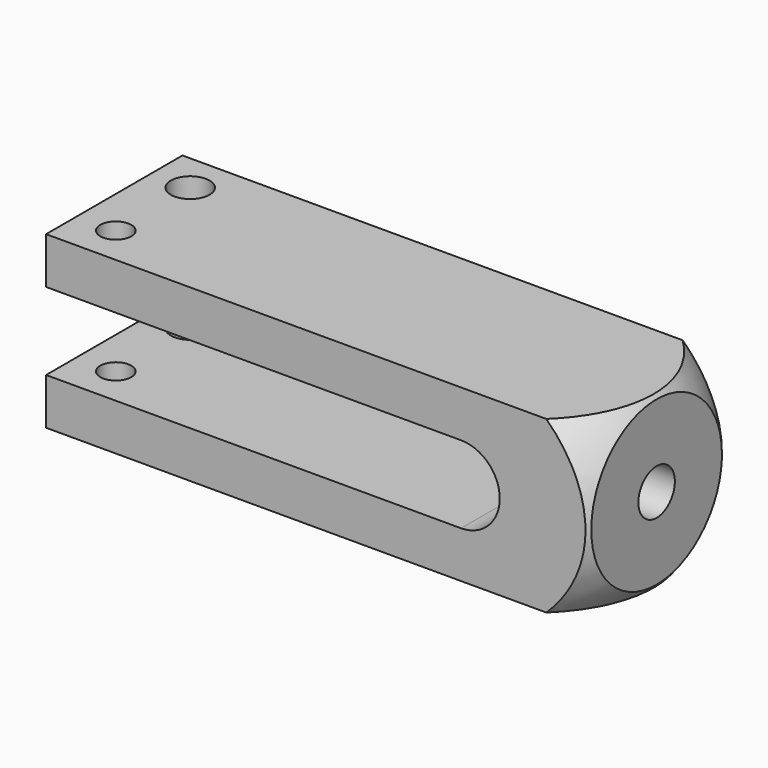
from build123d import *

# Parameters (mm, degrees)
F0_W     = 111.125
F0_H     = 34.925
F1_DEPTH = 34.925
F2_W     = 85.0138
F2_H     = 15.875
F3_DEPTH = 50.8
F6_ANGLE = 359.999
F8_D     = 9.3472
F9_DEPTH = 25.4
F11_D    = 6.35
F12_D    = 7.9248


with BuildPart() as f1:
    # F0 (on Top) → F1 (new body)
    with BuildSketch(Plane.XY):
        with Locations((-9.4721727073, 38.9707404039)):
            Rectangle(F0_W, F0_H)
    extrude(amount=-F1_DEPTH)

    # F2 (on face) → F3 (cut)
    with BuildSketch(Plane.XZ.offset(-21.5082404039)):
        with Locations((-22.5277727073, -17.4625)):
            Rectangle(F2_W, F2_H)
        with BuildLine():
            ThreePointArc((19.9791272927, -25.4), (27.9166272927, -17.4625), (19.9791272927, -9.525))
            Line((19.9791272927, -9.525), (19.9791272927, -25.4))
        make_face()
    extrude(amount=-F3_DEPTH, mode=Mode.SUBTRACT)

    # F5 (on mid) → F6 (revolve, cut)
    with BuildSketch(Plane(origin=(0, 0, -17.4625), x_dir=(1, 0, 0), z_dir=(0, 0, -1))):
        with BuildLine():
            ThreePointArc((53.8154372194, -38.9707404039), (47.2657750376, -54.1463569055), (34.9778272927, -65.2009374547))
            Line((34.9778272927, -65.2009374547), (53.8154372194, -65.2009374547))
            Line((53.8154372194, -65.2009374547), (53.8154372194, -38.9707404039))
        make_face()
    revolve(axis=Axis((2.3934654891, 38.9707404039, -17.4625), (-1, 0, 0)), revolution_arc=F6_ANGLE, mode=Mode.SUBTRACT)

    # F8 (through all)
    with Locations(Plane.YZ.offset(46.0903272927)):
        with Locations((38.9707404039, -17.4625)):
            Hole(F8_D / 2)

    # F5 (on mid) → F9 (cut)
    with BuildSketch(Plane(origin=(0, 0, -17.4625), x_dir=(1, 0, 0), z_dir=(0, 0, -1))):
        with BuildLine():
            ThreePointArc((53.8154372194, -38.9707404039), (47.2657750376, -54.1463569055), (34.9778272927, -65.2009374547))
            Line((34.9778272927, -65.2009374547), (53.8154372194, -65.2009374547))
            Line((53.8154372194, -65.2009374547), (53.8154372194, -38.9707404039))
        make_face()
    extrude(amount=-F9_DEPTH, mode=Mode.SUBTRACT)

    # F11 (through all)
    with Locations(Plane.XY):
        with Locations((-57.0971727073, 29.4457404039)):
            Hole(F11_D / 2)

    # F12 (through all)
    with Locations(Plane.XY):
        with Locations((-57.0971727073, 48.4957404039)):
            Hole(F12_D / 2)


solid = f1.part
